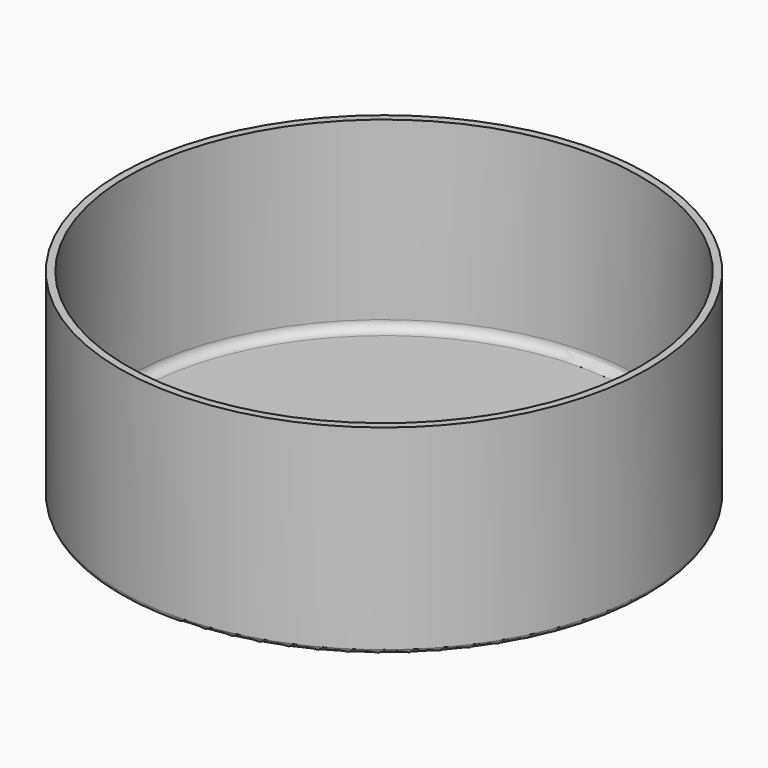
from build123d import *

# Parameters (mm, degrees)
SKETCH_R      = 28.5
PAD_DEPTH     = 1.6
SKETCH001_R   = 28.5
SKETCH001_R_2 = 27.7
PAD001_DEPTH  = 20
FILLET_R      = 0.5
FILLET001_R   = 1


with BuildPart() as part:
    # Sketch → Pad (new body)
    with BuildSketch(Plane.XY):
        Circle(SKETCH_R)
    extrude(amount=PAD_DEPTH)

    # Sketch001 (on Face3 of Pad) → Pad001 (join)
    with BuildSketch(Plane.XY.offset(1.6)):
        Circle(SKETCH001_R)
        Circle(SKETCH001_R_2, mode=Mode.SUBTRACT)
    extrude(amount=PAD001_DEPTH)

    # Fillet
    fillet_edges = [part.edges().sort_by_distance(p)[0] for p in [
        (-28.5, 0, 0),
    ]]
    fillet(fillet_edges, radius=FILLET_R)

    # Fillet001
    fillet001_edges = [part.edges().sort_by_distance(p)[0] for p in [
        (-27.7, 0, 1.6),
    ]]
    fillet(fillet001_edges, radius=FILLET001_R)


solid = part.part
